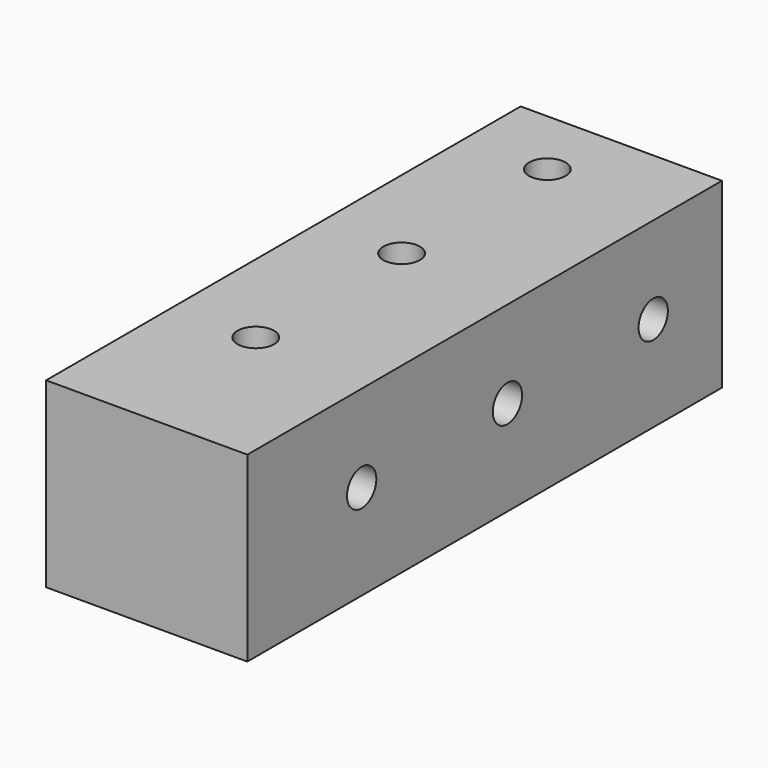
from build123d import *

# Parameters (mm, degrees)
F0_W     = 28.057197
F0_H     = 82.694904
F1_DEPTH = 25.4
F4_D     = 5.1054
F5_D     = 5.1054


with BuildPart() as f1:
    # F0 (on Top) → F1 (new body)
    with BuildSketch(Plane.XY):
        with Locations((-19.532638, -10.070052)):
            Rectangle(F0_W, F0_H)
    extrude(amount=F1_DEPTH)

    # F4 (through all)
    with Locations(Plane.YZ.offset(-5.50404)):
        with Locations((19.304432, 13.261723), (-6.095568, 13.261723), (-31.495568, 13.261723)):
            Hole(F4_D / 2)

    # F5 (through all)
    with Locations(Plane.XY.offset(25.4)):
        with Locations((-22.04302, 21.531211), (-22.04302, -3.868789), (-22.04302, -29.268789)):
            Hole(F5_D / 2)


solid = f1.part
